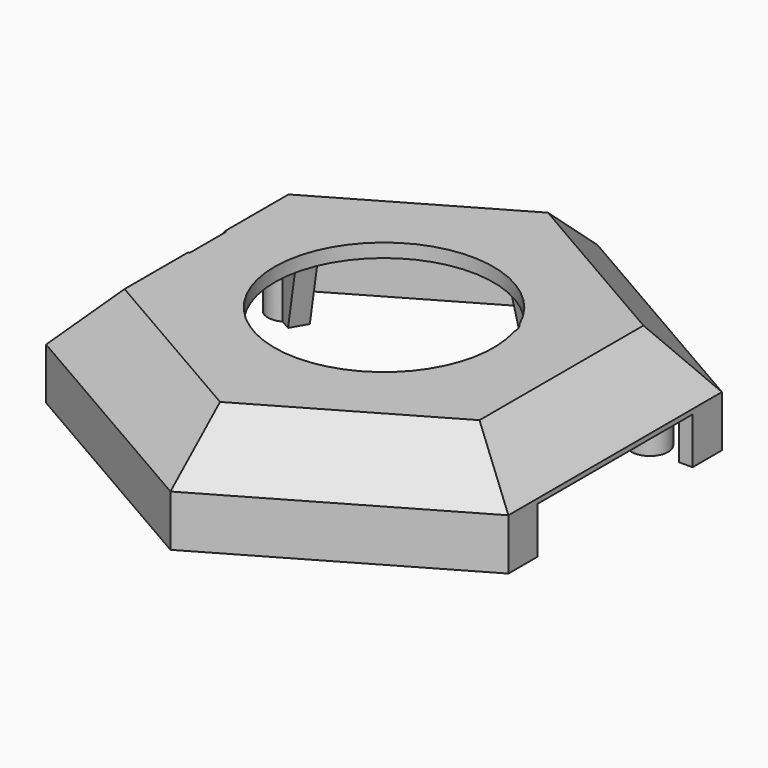
from build123d import *

# Parameters (mm, degrees)
PRISM005_DEPTH           = 23
PRISM005_ROLL_ANGLE      = 153.435058
PRISM005_PITCH_ANGLE     = 37.760957
PRISM005_PLACEMENT_ANGLE = 140.768627
PRISM006_DEPTH           = 5
PRISM006_ROLL_ANGLE      = 153.435058
PRISM006_PITCH_ANGLE     = 37.760957
PRISM006_PLACEMENT_ANGLE = 140.768627
CHAMFER005_SIZE          = 4
BOX013_W                 = 6
BOX013_H                 = 42.4
BOX013_DEPTH             = 10.2
CYLINDER004_R            = 2
CYLINDER004_DEPTH        = 42
CYLINDER004_ROLL_ANGLE   = 90
PAD004_DEPTH             = 37
BODY004_PITCH_ANGLE      = -45
CYLINDER001_R            = 4
CYLINDER001_DEPTH        = 44
CYLINDER002_R            = 24
CYLINDER002_DEPTH        = 44
PAD003_DEPTH             = 5.62
PRISM_DEPTH              = 20
PRISM_PLACEMENT_ANGLE    = 30
CHAMFER001_SIZE          = 10
THICKNESS_T              = 3
CYLINDER047_R            = 1.5
CYLINDER047_DEPTH        = 15
BOX030_W                 = 4
BOX030_H                 = 7
BOX030_DEPTH             = 22
CHAMFER003_SIZE2         = 4
CHAMFER003_SIZE          = 15
BOX029_W                 = 12
BOX029_H                 = 10
BOX029_DEPTH             = 14
BOX029_ROLL_ANGLE        = -45
CYLINDER046_R            = 4
CYLINDER046_DEPTH        = 21
BOX031_W                 = 4
BOX031_H                 = 7
BOX031_DEPTH             = 10
CHAMFER004_SIZE          = 5
ARRAY001_COUNT           = 6


with BuildPart() as obj1:
    # Prism005 → Prism005 (new body)
    with BuildSketch(Plane.XY):
        Polygon((10, 0), (5, 8.660254), (-5, 8.660254), (-10, 0), (-5, -8.660254), (5, -8.660254), align=None)
    extrude(amount=PRISM005_DEPTH)


with BuildPart() as obj1_1:
    # Prism005 roll: moved
    add(obj1.part.rotate(Axis((0, 0, 0), (1, 0, 0)), PRISM005_ROLL_ANGLE))


with BuildPart() as obj1_2:
    # Prism005 pitch: moved
    add(obj1_1.part.rotate(Axis((0, 0, 0), (0, 1, 0)), PRISM005_PITCH_ANGLE))


with BuildPart() as obj1_3:
    # Prism005 placement: moved
    add(obj1_2.part.moved(Location((-45.8, 0, 18))).rotate(Axis((-45.8, 0, 18), (0, 0, 1)), PRISM005_PLACEMENT_ANGLE))


with BuildPart() as obj2:
    # Prism006 → Prism006 (new body)
    with BuildSketch(Plane.XY):
        Polygon((12, 0), (6, 10.392305), (-6, 10.392305), (-12, 0), (-6, -10.392305), (6, -10.392305), align=None)
    extrude(amount=PRISM006_DEPTH)


with BuildPart() as obj2_1:
    # Prism006 roll: moved
    add(obj2.part.rotate(Axis((0, 0, 0), (1, 0, 0)), PRISM006_ROLL_ANGLE))


with BuildPart() as obj2_2:
    # Prism006 pitch: moved
    add(obj2_1.part.rotate(Axis((0, 0, 0), (0, 1, 0)), PRISM006_PITCH_ANGLE))


with BuildPart() as obj2_3:
    # Prism006 placement: moved
    add(obj2_2.part.moved(Location((-44.8, 0, 17))).rotate(Axis((-44.8, 0, 17), (0, 0, 1)), PRISM006_PLACEMENT_ANGLE))

    # Chamfer005
    chamfer005_edges = [obj2_3.edges().sort_by_distance(p)[0] for p in [
        (-37.451495, -4e-06, 24.348434),
        (-52.148505, 4e-06, 9.651566),
    ]]
    chamfer(chamfer005_edges, length=CHAMFER005_SIZE)


with BuildPart() as cubo010:
    # Box013 → Box013 (new body)
    with BuildSketch(Plane(origin=(44.7, -21.2, 0), x_dir=(1, 0, 0), z_dir=(0, 0, 1))):
        with Locations((3, 21.2)):
            Rectangle(BOX013_W, BOX013_H)
    extrude(amount=BOX013_DEPTH)


with BuildPart() as obj3:
    # Cylinder004 → Cylinder004 (new body)
    with BuildSketch(Plane.XY):
        Circle(CYLINDER004_R)
    extrude(amount=CYLINDER004_DEPTH)


with BuildPart() as obj3_1:
    # Cylinder004 roll: moved
    add(obj3.part.rotate(Axis((0, 0, 0), (1, 0, 0)), CYLINDER004_ROLL_ANGLE))


with BuildPart() as obj3_2:
    # Cylinder004 placement: moved
    add(obj3_1.part.moved(Location((-39, 21, 33))))


with BuildPart() as obj4:
    # Sketch004 → Pad004 (new body)
    with BuildSketch(Plane.XY):
        Polygon((-40.876069, 10), (-49.536323, 5), (-49.536323, -5), (-40.876069, -10), (-32.215815, -5), (-32.215815, 5), align=None)
    extrude(amount=PAD004_DEPTH)


with BuildPart() as obj4_1:
    # Body004 pitch: moved
    add(obj4.part.rotate(Axis((0, 0, 0), (0, 1, 0)), BODY004_PITCH_ANGLE))


with BuildPart() as obj4_2:
    # Body004 placement: moved
    add(obj4_1.part.moved(Location((0, 0, 103))))


with BuildPart() as obj5:
    # Cylinder001 → Cylinder001 (new body)
    with BuildSketch(Plane(origin=(19, 7, 0), x_dir=(1, 0, 0), z_dir=(0, 0, 1))):
        Circle(CYLINDER001_R)
    extrude(amount=CYLINDER001_DEPTH)


with BuildPart() as fusion002:
    # Cylinder002 → Cylinder002 (new body)
    with BuildSketch(Plane.XY):
        Circle(CYLINDER002_R)
    extrude(amount=CYLINDER002_DEPTH)

    # Fusion002: union obj5
    add(obj5.part)


with BuildPart() as obj6:
    # Sketch003 → Pad003 (new body)
    with BuildSketch(Plane.YZ):
        Polygon((-3, 0.536587), (3, 0.536587), (4.5, -3.263413), (-4.5, -3.263413), align=None)
    extrude(amount=PAD003_DEPTH)


with BuildPart() as obj6_1:
    # Body003 placement: moved
    add(obj6.part.moved(Location((45.85, 0, 5))))


with BuildPart() as tapa_superior_con_agujero_hexagonal:
    # Prism → Prism (new body)
    with BuildSketch(Plane.XY):
        Polygon((55, 0), (27.5, 47.631397), (-27.5, 47.631397), (-55, 0), (-27.5, -47.631397), (27.5, -47.631397), align=None)
    extrude(amount=PRISM_DEPTH)


with BuildPart() as tapa_superior_con_agujero_hexagonal_1:
    # Prism placement: moved
    add(tapa_superior_con_agujero_hexagonal.part.rotate(Axis((0, 0, 0), (0, 0, 1)), PRISM_PLACEMENT_ANGLE))

    # Chamfer001
    chamfer001_edges = [tapa_superior_con_agujero_hexagonal_1.edges().sort_by_distance(p)[0] for p in [
        (23.815699, 41.25, 20),
        (-23.815699, 41.25, 20),
        (-47.631397, 0, 20),
        (-23.815699, -41.25, 20),
        (23.815699, -41.25, 20),
        (47.631397, 0, 20),
    ]]
    chamfer(chamfer001_edges, length=CHAMFER001_SIZE)

    # Thickness
    thickness_openings = [tapa_superior_con_agujero_hexagonal_1.faces().sort_by_distance(p)[0] for p in [
        (0, 0, 0),
    ]]
    offset(amount=THICKNESS_T, openings=thickness_openings, kind=Kind.INTERSECTION)

    # Cut001: cut obj6
    add(obj6_1.part, mode=Mode.SUBTRACT)

    # Cut002: cut Fusion002
    add(fusion002.part, mode=Mode.SUBTRACT)

    # Cut004: cut obj4)
    add(obj4_2.part, mode=Mode.SUBTRACT)

    # Cut005: cut obj3)
    add(obj3_2.part, mode=Mode.SUBTRACT)

    # Cut009: cut Cubo010
    add(cubo010.part, mode=Mode.SUBTRACT)

    # Fusion011: union obj2
    add(obj2_3.part)

    # Cut016: cut obj1
    add(obj1_3.part, mode=Mode.SUBTRACT)


with BuildPart() as cilindro023:
    # Cylinder047 → Cylinder047 (new body)
    with BuildSketch(Plane(origin=(0, -46, 0), x_dir=(1, 0, 0), z_dir=(0, 0, 1))):
        Circle(CYLINDER047_R)
    extrude(amount=CYLINDER047_DEPTH)


with BuildPart() as chamfer003:
    # Box030 → Box030 (new body)
    with BuildSketch(Plane(origin=(-2, -43, 0), x_dir=(1, 0, 0), z_dir=(0, 0, 1))):
        with Locations((2, 3.5)):
            Rectangle(BOX030_W, BOX030_H)
    extrude(amount=BOX030_DEPTH)

    # Chamfer003
    chamfer003_edges = [chamfer003.edges().sort_by_distance(p)[0] for p in [
        (0, -36, 0),
    ]]
    chamfer003_side = chamfer003.faces().sort_by_distance((0, -36, 11))[0]
    chamfer(chamfer003_edges, length=CHAMFER003_SIZE, length2=CHAMFER003_SIZE2, reference=chamfer003_side)


with BuildPart() as cubo025:
    # Box029 → Box029 (new body)
    with BuildSketch(Plane.XY):
        with Locations((6, 5)):
            Rectangle(BOX029_W, BOX029_H)
    extrude(amount=BOX029_DEPTH)


with BuildPart() as cubo025_1:
    # Box029 roll: moved
    add(cubo025.part.rotate(Axis((0, 0, 0), (1, 0, 0)), BOX029_ROLL_ANGLE))


with BuildPart() as cubo025_2:
    # Box029 placement: moved
    add(cubo025_1.part.moved(Location((-7, -59, 20))))


with BuildPart() as cut014:
    # Cylinder046 → Cylinder046 (new body)
    with BuildSketch(Plane(origin=(0, -46, 0), x_dir=(1, 0, 0), z_dir=(0, 0, 1))):
        Circle(CYLINDER046_R)
    extrude(amount=CYLINDER046_DEPTH)

    # Cut014: cut Cubo025
    add(cubo025_2.part, mode=Mode.SUBTRACT)


with BuildPart() as tapa_superior:
    # Box031 → Box031 (new body)
    with BuildSketch(Plane(origin=(-2, -56, 6), x_dir=(1, 0, 0), z_dir=(0, 0, 1))):
        with Locations((2, 3.5)):
            Rectangle(BOX031_W, BOX031_H)
    extrude(amount=BOX031_DEPTH)

    # Chamfer004
    chamfer004_edges = [tapa_superior.edges().sort_by_distance(p)[0] for p in [
        (0, -56, 16),
    ]]
    chamfer(chamfer004_edges, length=CHAMFER004_SIZE)

    # Fusion010: union Chamfer003, Cut014
    add(chamfer003.part)
    add(cut014.part)

    # Cut015: cut Cilindro023
    add(cilindro023.part, mode=Mode.SUBTRACT)

    # Array001: tapa superior ×6 about axis
    array001_axis = Axis((0, 0, 0), (0, 0, 1))


with BuildPart() as tapa_superior_1:
    add(tapa_superior.part)
    for i in range(1, ARRAY001_COUNT):
        add(tapa_superior.part.rotate(array001_axis, i * 360 / ARRAY001_COUNT))

    # Fusion012: union tapa superior con agujero hexagonal
    add(tapa_superior_con_agujero_hexagonal_1.part)


solid = tapa_superior_1.part
